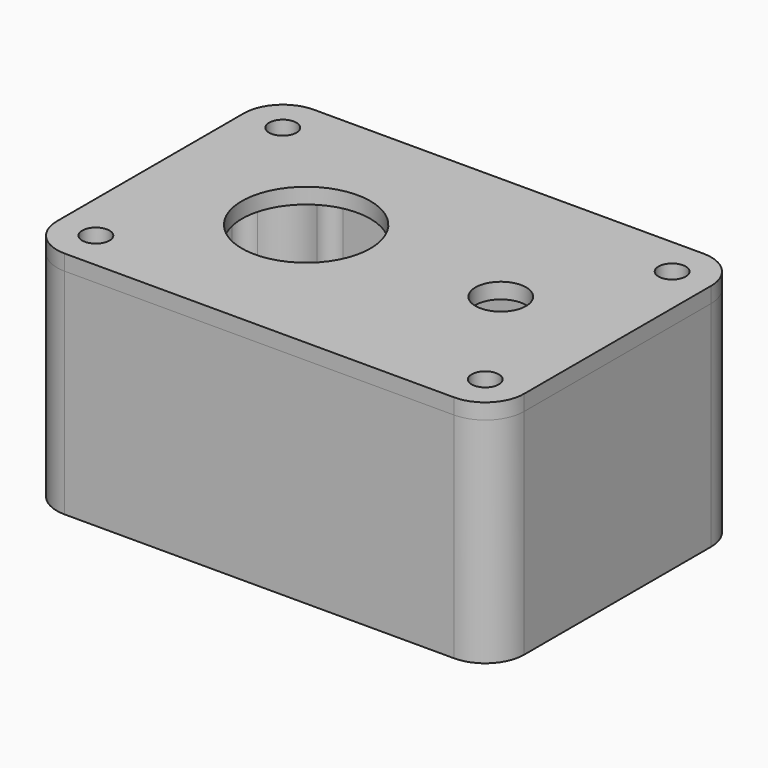
from build123d import *

# Parameters (mm, degrees)
F0_R     = 1.75
F0_R_2   = 8.25
F0_R_3   = 3.25
F1_DEPTH = 2
F2_R     = 1.15
F3_DEPTH = 25
F4_R     = 2.25
F4_R_2   = 7
F5_DEPTH = 2.5


with BuildPart() as f1:
    # F0 (on Top) → F1 (new body)
    with BuildSketch(Plane.XY):
        with BuildLine():
            ThreePointArc((0, 5), (1.464466, 1.464466), (5, 0))
            Line((5, 0), (55, 0))
            ThreePointArc((55, 0), (58.535534, 1.464466), (60, 5))
            Line((60, 5), (60, 35))
            ThreePointArc((60, 35), (58.535534, 38.535534), (55, 40))
            Line((55, 40), (5, 40))
            ThreePointArc((5, 40), (1.464466, 38.535534), (0, 35))
            Line((0, 35), (0, 5))
        make_face()
        with Locations((5, 5)):
            Circle(F0_R, mode=Mode.SUBTRACT)
        with Locations((55, 5)):
            Circle(F0_R, mode=Mode.SUBTRACT)
        with Locations((20, 20)):
            Circle(F0_R_2, mode=Mode.SUBTRACT)
        with Locations((5, 35)):
            Circle(F0_R, mode=Mode.SUBTRACT)
        with Locations((45, 20)):
            Circle(F0_R_3, mode=Mode.SUBTRACT)
        with Locations((55, 35)):
            Circle(F0_R, mode=Mode.SUBTRACT)
    extrude(amount=F1_DEPTH)


with BuildPart() as f3:
    # F2 (on face) → F3 (new body)
    with BuildSketch(Plane(origin=(0, 0, 0), x_dir=(1, 0, 0), z_dir=(0, 0, -1))):
        with BuildLine():
            Line((55, 0), (5, 0))
            ThreePointArc((5, 0), (1.464466, -1.464466), (0, -5))
            Line((0, -5), (0, -35))
            ThreePointArc((0, -35), (1.464466, -38.535534), (5, -40))
            Line((5, -40), (55, -40))
            ThreePointArc((55, -40), (58.535534, -38.535534), (60, -35))
            Line((60, -35), (60, -5))
            ThreePointArc((60, -5), (58.535534, -1.464466), (55, 0))
        make_face()
        with Locations((5, -35)):
            Circle(F2_R, mode=Mode.SUBTRACT)
        with Locations((55, -35)):
            Circle(F2_R, mode=Mode.SUBTRACT)
        with Locations((5, -5)):
            Circle(F2_R, mode=Mode.SUBTRACT)
        with BuildLine():
            ThreePointArc((4, -11.928203), (4.488142, -10.618896), (5.714286, -9.948717))
            ThreePointArc((5.714286, -9.948717), (8.535534, -8.535534), (9.948717, -5.714286))
            ThreePointArc((9.948717, -5.714286), (10.618896, -4.488142), (11.928203, -4))
            Line((11.928203, -4), (48.071797, -4))
            ThreePointArc((48.071797, -4), (49.381104, -4.488142), (50.051283, -5.714286))
            ThreePointArc((50.051283, -5.714286), (51.464466, -8.535534), (54.285714, -9.948717))
            ThreePointArc((54.285714, -9.948717), (55.511858, -10.618896), (56, -11.928203))
            Line((56, -11.928203), (56, -28.071797))
            ThreePointArc((56, -28.071797), (55.511858, -29.381104), (54.285714, -30.051283))
            ThreePointArc((54.285714, -30.051283), (51.464466, -31.464466), (50.051283, -34.285714))
            ThreePointArc((50.051283, -34.285714), (49.381104, -35.511858), (48.071797, -36))
            Line((48.071797, -36), (11.928203, -36))
            ThreePointArc((11.928203, -36), (10.618896, -35.511858), (9.948717, -34.285714))
            ThreePointArc((9.948717, -34.285714), (8.535534, -31.464466), (5.714286, -30.051283))
            ThreePointArc((5.714286, -30.051283), (4.488142, -29.381104), (4, -28.071797))
            Line((4, -28.071797), (4, -11.928203))
        make_face(mode=Mode.SUBTRACT)
        with Locations((55, -5)):
            Circle(F2_R, mode=Mode.SUBTRACT)
    extrude(amount=F3_DEPTH)

    # F4 (on face) → F5 (join)
    with BuildSketch(Plane(origin=(0, 0, -25), x_dir=(1, 0, 0), z_dir=(0, 0, -1))):
        with BuildLine():
            Line((30, 0), (5, 0))
            ThreePointArc((5, 0), (1.464466, -1.464466), (0, -5))
            Line((0, -5), (0, -35))
            ThreePointArc((0, -35), (1.464466, -38.535534), (5, -40))
            Line((5, -40), (30, -40))
            Line((30, -40), (30, 0))
        make_face()
        with Locations((15, -10)):
            Circle(F4_R, mode=Mode.SUBTRACT)
        with BuildLine():
            Line((55, 0), (30, 0))
            Line((30, 0), (30, -40))
            Line((30, -40), (55, -40))
            ThreePointArc((55, -40), (58.535534, -38.535534), (60, -35))
            Line((60, -35), (60, -5))
            ThreePointArc((60, -5), (58.535534, -1.464466), (55, 0))
        make_face()
        with Locations((45, -30)):
            Circle(F4_R, mode=Mode.SUBTRACT)
        with Locations((42, -15)):
            Circle(F4_R_2, mode=Mode.SUBTRACT)
    extrude(amount=F5_DEPTH)


solid = Compound([f1.part, f3.part])
